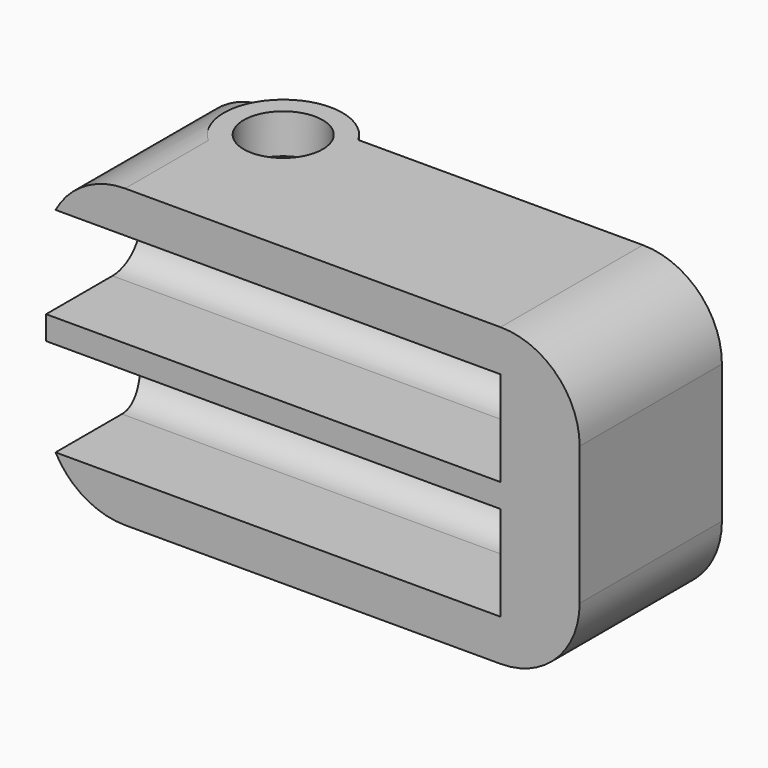
from build123d import *

# Parameters (mm, degrees)
CYLINDER002_R          = 2
CYLINDER002_DEPTH      = 2
CYLINDER_R             = 1.05
CYLINDER_DEPTH         = 20
CYLINDER_ROLL_ANGLE    = 90
RECTANGLE004_W         = 26
RECTANGLE004_H         = 4.8
EXTRUDE005_DEPTH       = 8
RECTANGLE002_W         = 26
RECTANGLE002_H         = 1
EXTRUDE004_DEPTH       = 20
RECTANGLE005_W         = 26
RECTANGLE005_H         = 4.8
EXTRUDE008_DEPTH       = 8
RECTANGLE001_W         = 26
RECTANGLE001_H         = 1
EXTRUDE002_DEPTH       = 20
RECTANGLE_W            = 27
RECTANGLE_H            = 15
EXTRUDE_DEPTH          = 9
FILLET_R               = 4
FILLET001_R            = 1.8
RECTANGLE008_W         = 26
RECTANGLE008_H         = 4.8
EXTRUDE011_DEPTH       = 8
RECTANGLE007_W         = 26
RECTANGLE007_H         = 1
EXTRUDE010_DEPTH       = 20
RECTANGLE009_W         = 26
RECTANGLE009_H         = 4.8
EXTRUDE012_DEPTH       = 8
RECTANGLE006_W         = 26
RECTANGLE006_H         = 1
EXTRUDE009_DEPTH       = 20
CYLINDER001_R          = 3
CYLINDER001_DEPTH      = 15
CYLINDER001_ROLL_ANGLE = 90
CUT002_ROLL_ANGLE      = 90


with BuildPart() as cylinder002:
    # Cylinder002 → Cylinder002 (new body)
    with BuildSketch(Plane(origin=(-14, -1.5, 18), x_dir=(1, 0, 0), z_dir=(0, 0, 1))):
        Circle(CYLINDER002_R)
    extrude(amount=CYLINDER002_DEPTH)


with BuildPart() as cylinder:
    # Cylinder → Cylinder (new body)
    with BuildSketch(Plane.XY):
        Circle(CYLINDER_R)
    extrude(amount=CYLINDER_DEPTH)


with BuildPart() as cylinder_1:
    # Cylinder roll: moved
    add(cylinder.part.rotate(Axis((0, 0, 0), (1, 0, 0)), CYLINDER_ROLL_ANGLE))


with BuildPart() as cylinder_2:
    # Cylinder placement: moved
    add(cylinder_1.part.moved(Location((-14, 21, 1.5))))


with BuildPart() as extrude005:
    # Rectangle004 → Extrude005 (new body)
    with BuildSketch(Plane(origin=(-23, 13.1, 0), x_dir=(1, 0, 0), z_dir=(0, 0, 1))):
        with Locations((13, 2.4)):
            Rectangle(RECTANGLE004_W, RECTANGLE004_H)
    extrude(amount=-EXTRUDE005_DEPTH)


with BuildPart() as extrude005_1:
    # Extrude005 placement: moved
    add(extrude005.part.moved(Location((0, 0, 11))))


with BuildPart() as extrude004:
    # Rectangle002 → Extrude004 (new body)
    with BuildSketch(Plane(origin=(-23, 10, 0), x_dir=(1, 0, 0), z_dir=(0, 0, 1))):
        with Locations((13, -0.5)):
            Rectangle(RECTANGLE002_W, RECTANGLE002_H)
    extrude(amount=EXTRUDE004_DEPTH)


with BuildPart() as extrude004_1:
    # Extrude004 placement: moved
    add(extrude004.part.moved(Location((0, 0, -4))))


with BuildPart() as extrude008:
    # Rectangle005 → Extrude008 (new body)
    with BuildSketch(Plane(origin=(-23, 11.9, 0), x_dir=(1, 0, 0), z_dir=(0, 0, 1))):
        with Locations((13, -2.4)):
            Rectangle(RECTANGLE005_W, RECTANGLE005_H)
    extrude(amount=EXTRUDE008_DEPTH)


with BuildPart() as extrude008_1:
    # Extrude008 placement: moved
    add(extrude008.part.moved(Location((0, 0, 3))))


with BuildPart() as fusion:
    # Rectangle001 → Extrude002 (new body)
    with BuildSketch(Plane(origin=(-23, 16, 0), x_dir=(1, 0, 0), z_dir=(0, 0, 1))):
        with Locations((13, 0.5)):
            Rectangle(RECTANGLE001_W, RECTANGLE001_H)
    extrude(amount=-EXTRUDE002_DEPTH)


with BuildPart() as fusion_1:
    # Extrude002 placement: moved
    add(fusion.part.moved(Location((0, -1, 10))))

    # Fusion: union Extrude005, Extrude004, Extrude008
    add(extrude005_1.part)
    add(extrude004_1.part)
    add(extrude008_1.part)


with BuildPart() as fillet001:
    # Rectangle → Extrude (new body)
    with BuildSketch(Plane(origin=(-20, 20, 0), x_dir=(1, 0, 0), z_dir=(0, 0, 1))):
        with Locations((13.5, -7.5)):
            Rectangle(RECTANGLE_W, RECTANGLE_H)
    extrude(amount=EXTRUDE_DEPTH)

    # Fillet
    fillet_edges = [fillet001.edges().sort_by_distance(p)[0] for p in [
        (-20, 20, 4.5),
        (7, 20, 4.5),
        (7, 5, 4.5),
        (-20, 5, 4.5),
    ]]
    fillet(fillet_edges, radius=FILLET_R)

    # Cut: cut Fusion
    add(fusion_1.part, mode=Mode.SUBTRACT)

    # Fillet001
    fillet001_edges = [fillet001.edges().sort_by_distance(p)[0] for p in [
        (-8.259972, 17.9, 3),
        (-8.259972, 7.1, 3),
        (-8.5, 11.9, 3),
        (-8.5, 13.1, 3),
    ]]
    fillet(fillet001_edges, radius=FILLET001_R)


with BuildPart() as extrude011:
    # Rectangle008 → Extrude011 (new body)
    with BuildSketch(Plane(origin=(-23, 13.1, 0), x_dir=(1, 0, 0), z_dir=(0, 0, 1))):
        with Locations((13, 2.4)):
            Rectangle(RECTANGLE008_W, RECTANGLE008_H)
    extrude(amount=-EXTRUDE011_DEPTH)


with BuildPart() as extrude011_1:
    # Extrude011 placement: moved
    add(extrude011.part.moved(Location((0, 0, 11))))


with BuildPart() as extrude010:
    # Rectangle007 → Extrude010 (new body)
    with BuildSketch(Plane(origin=(-23, 10, 0), x_dir=(1, 0, 0), z_dir=(0, 0, 1))):
        with Locations((13, -0.5)):
            Rectangle(RECTANGLE007_W, RECTANGLE007_H)
    extrude(amount=EXTRUDE010_DEPTH)


with BuildPart() as extrude010_1:
    # Extrude010 placement: moved
    add(extrude010.part.moved(Location((0, 0, -4))))


with BuildPart() as extrude012:
    # Rectangle009 → Extrude012 (new body)
    with BuildSketch(Plane(origin=(-23, 11.9, 0), x_dir=(1, 0, 0), z_dir=(0, 0, 1))):
        with Locations((13, -2.4)):
            Rectangle(RECTANGLE009_W, RECTANGLE009_H)
    extrude(amount=EXTRUDE012_DEPTH)


with BuildPart() as extrude012_1:
    # Extrude012 placement: moved
    add(extrude012.part.moved(Location((0, 0, 3))))


with BuildPart() as fusion001:
    # Rectangle006 → Extrude009 (new body)
    with BuildSketch(Plane(origin=(-23, 16, 0), x_dir=(1, 0, 0), z_dir=(0, 0, 1))):
        with Locations((13, 0.5)):
            Rectangle(RECTANGLE006_W, RECTANGLE006_H)
    extrude(amount=-EXTRUDE009_DEPTH)


with BuildPart() as fusion001_1:
    # Extrude009 placement: moved
    add(fusion001.part.moved(Location((0, -1, 10))))

    # Fusion001: union Extrude011, Extrude010, Extrude012
    add(extrude011_1.part)
    add(extrude010_1.part)
    add(extrude012_1.part)


with BuildPart() as cut003:
    # Cylinder001 → Cylinder001 (new body)
    with BuildSketch(Plane.XY):
        Circle(CYLINDER001_R)
    extrude(amount=CYLINDER001_DEPTH)


with BuildPart() as cut003_1:
    # Cylinder001 roll: moved
    add(cut003.part.rotate(Axis((0, 0, 0), (1, 0, 0)), CYLINDER001_ROLL_ANGLE))


with BuildPart() as cut003_2:
    # Cylinder001 placement: moved
    add(cut003_1.part.moved(Location((-14, 20, 1.5))))

    # Cut001: cut Fusion001
    add(fusion001_1.part, mode=Mode.SUBTRACT)

    # Fusion002: union Fillet001
    add(fillet001.part)

    # Cut002: cut Cylinder
    add(cylinder_2.part, mode=Mode.SUBTRACT)


with BuildPart() as cut003_3:
    # Cut002 roll: moved
    add(cut003_2.part.rotate(Axis((0, 0, 0), (1, 0, 0)), CUT002_ROLL_ANGLE))


with BuildPart() as cut003_4:
    # Cut002 placement: moved
    add(cut003_3.part)

    # Cut003: cut Cylinder002
    add(cylinder002.part, mode=Mode.SUBTRACT)


solid = cut003_4.part
